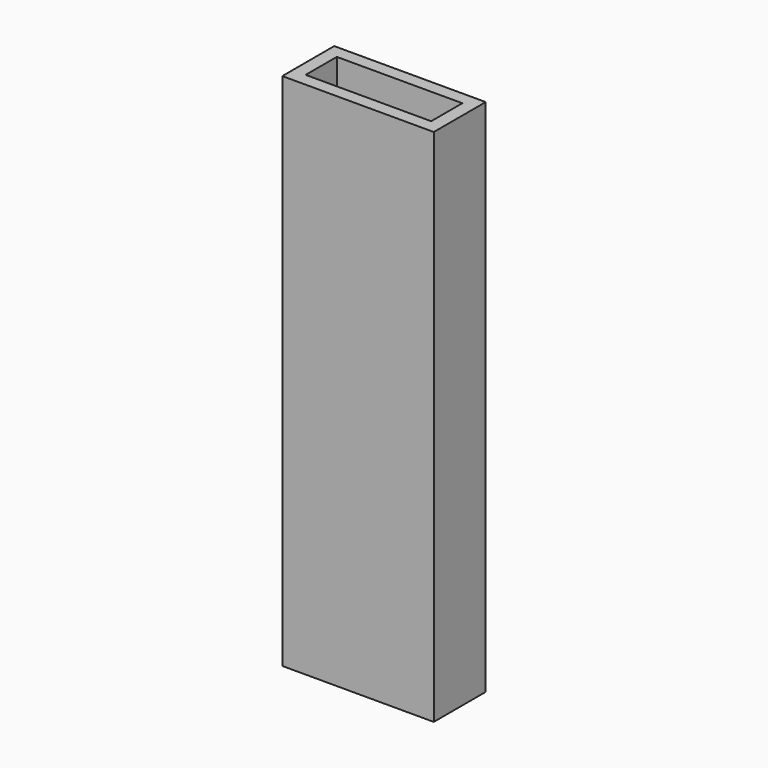
from build123d import *

# Parameters (mm, degrees)
F1_DEPTH = 304.8


with BuildPart() as f1:
    # F0 (on Top) → F1 (new body)
    with BuildSketch(Plane.XY):
        Polygon((-44.45, 19.05), (-44.45, 0), (-36.83, 0), (-36.83, 11.43), (36.83, 11.43), (36.83, 0), (44.45, 0), (44.45, 19.05), align=None)
    extrude(amount=F1_DEPTH)

    # F2: F1 across plane


with BuildPart() as f1_1:
    add(f1.part)
    add(f1.part.mirror(Plane.XZ))


solid = f1_1.part
